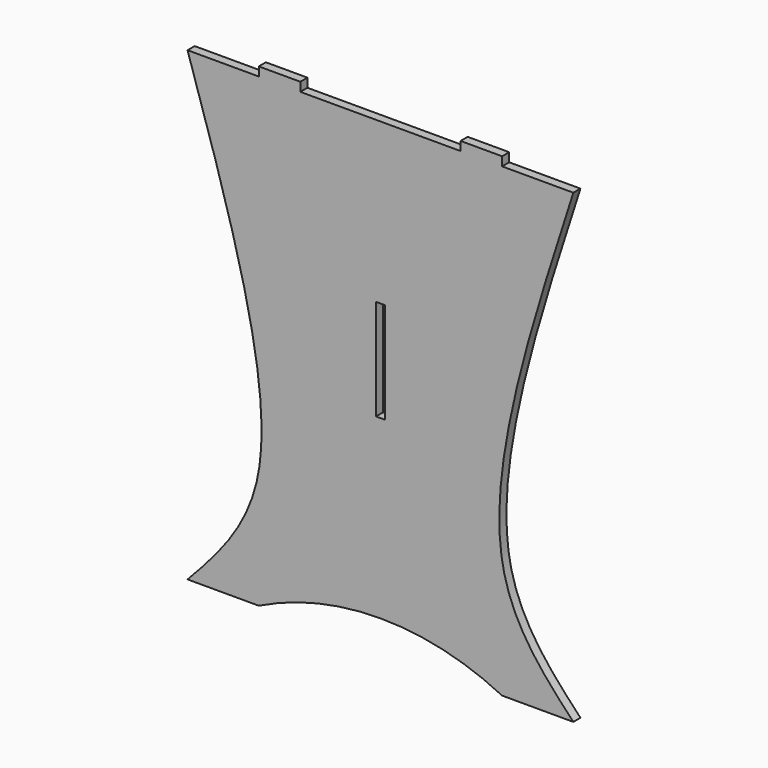
from build123d import *

# Parameters (mm, degrees)
F0_W     = 15
F0_H     = 170
F1_DEPTH = 15


with BuildPart() as f1:
    # F0 (on Front) → F1 (new body)
    with BuildSketch(Plane.XZ):
        with BuildLine():
            Line((-135, 400), (-205, 400))
            Line((-205, 400), (-205, 385))
            Line((-205, 385), (-325, 385))
            add(Edge.make_bspline(
                [(-325, 385), (-252.9975507968, 162.8222248382), (-135.9970148871, -198.2060325168), (-272.5009566468, -343.9480268474), (-325, -400)],
                knots=[0, 0, 0, 0, 0.6154027299, 1, 1, 1, 1], degree=3))
            Line((-325, -400), (-205, -400))
            ThreePointArc((-205, -400), (0, -352.0282453036), (205, -400))
            Line((205, -400), (325, -400))
            add(Edge.make_bspline(
                [(325, 385), (252.9975507968, 162.8222248382), (135.9970148871, -198.2060325168), (272.5009566468, -343.9480268474), (325, -400)],
                knots=[0, 0, 0, 0, 0.6154027299, 1, 1, 1, 1], degree=3))
            Line((325, 385), (205, 385))
            Line((205, 385), (205, 400))
            Line((205, 400), (135, 400))
            Line((135, 400), (135, 385))
            Line((135, 385), (-135, 385))
            Line((-135, 385), (-135, 400))
        make_face()
        with Locations((0, 29.998)):
            Rectangle(F0_W, F0_H, mode=Mode.SUBTRACT)
    extrude(amount=F1_DEPTH)


solid = f1.part
